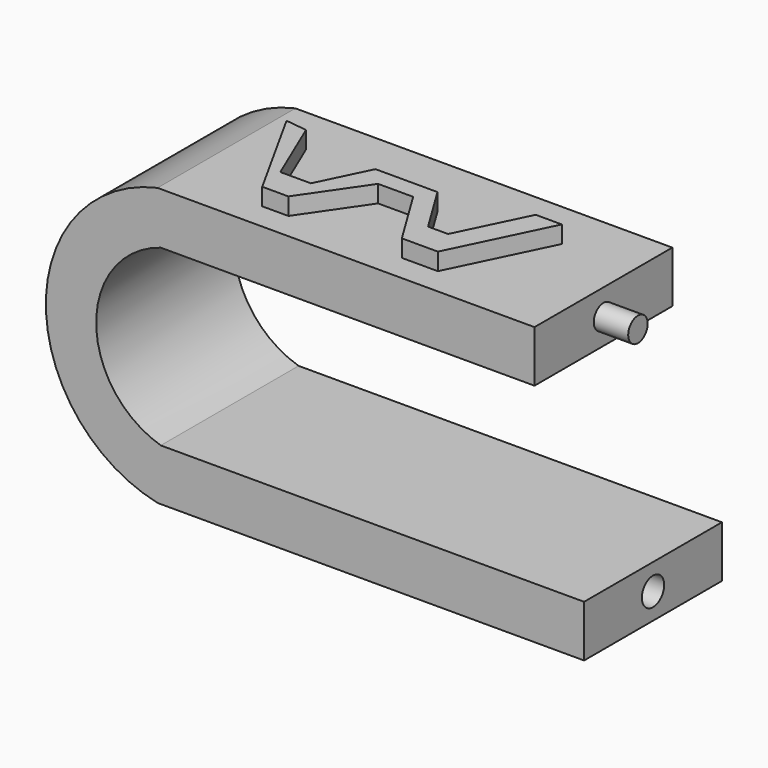
from build123d import *

# Parameters (mm, degrees)
F1_DEPTH = 12.7
F2_R     = 0.8957594025
F3_DEPTH = 2.54
F4_R     = 0.9017
F5_DEPTH = 25.4
F5_TAPER = -0.5
F7_DEPTH = 1.27


with BuildPart() as f1:
    # F0 (on Front) → F1 (new body)
    with BuildSketch(Plane.XZ):
        Polygon((-45.7861032019, -14.4099961261), (-45.5484393347, -18.2125762878), (-17.9987344891, -18.2125762878), (-17.9987344891, -14.4099961261), align=None)
        with BuildLine():
            ThreePointArc((-45.5484393347, -31.0462834481), (-50.3102929013, -24.629429868), (-45.5484393347, -18.2125762878))
            Line((-45.5484393347, -18.2125762878), (-45.7861032019, -14.4099961261))
            ThreePointArc((-45.7861032019, -14.4099961261), (-54.0189585577, -24.6331397871), (-45.7861032019, -34.8562834481))
            Line((-45.7861032019, -34.8562834481), (-45.5484393347, -31.0462834481))
        make_face()
        Polygon((-14.3427420408, -31.0462834481), (-45.5484393347, -31.0462834481), (-45.7861032019, -34.8562834481), (-14.3427420408, -34.8562834481), align=None)
    extrude(amount=F1_DEPTH)

    # F2 (on face) → F3 (join)
    with BuildSketch(Plane.YZ.offset(-17.9987344891)):
        with Locations((-6.3440594025, -16.3135261769)):
            Circle(F2_R)
    extrude(amount=F3_DEPTH)

    # F4 (on Right) → F5 (cut)
    with BuildSketch(Plane.YZ):
        with Locations((-6.35, -32.9512834481)):
            Circle(F4_R)
    extrude(amount=-F5_DEPTH, taper=F5_TAPER, mode=Mode.SUBTRACT)

    # F6 (on face) → F7 (join)
    with BuildSketch(Plane.XY.offset(-14.4099961261)):
        Polygon((-42.1013459563, -3.627152415), (-43.6947904527, -3.4279720858), (-39.6447889507, -10.731250979), (-37.7193801105, -10.731250979), (-34.6652828157, -6.2828902155), (-32.0759378374, -6.2828902155), (-29.3538048863, -10.731250979), (-26.6980677843, -10.731250979), (-23.2456084341, -3.627152415), (-25.1710172743, -3.627152415), (-27.6113765675, -8.6486606188), (-29.0882308036, -8.6486606188), (-31.3543434693, -4.9455032606), (-35.9267555177, -4.9455032606), (-37.7264208984, -8.6486606188), (-39.9767570198, -8.6486606188), align=None)
    extrude(amount=F7_DEPTH)


solid = f1.part
